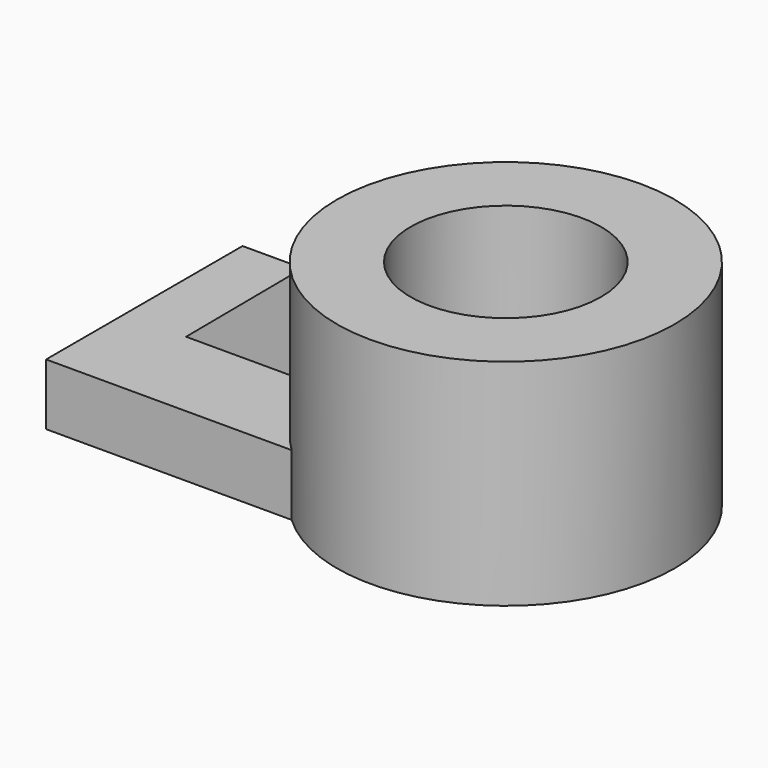
from build123d import *

# Parameters (mm, degrees)
F0_R     = 39.37
F1_DEPTH = 88.9
F2_DEPTH = 25.4
F5_DEPTH = 20.32
F5_TAPER = -0.1


with BuildPart() as f1:
    # F0 (on Top) → F1 (new body)
    with BuildSketch(Plane.XY):
        with BuildLine():
            ThreePointArc((168.591448664, 0), (126.4029047972, 64.1394289388), (50.8, 50.8))
            ThreePointArc((50.8, 50.8), (28.891448664, 0), (50.8, -50.8))
            ThreePointArc((50.8, -50.8), (126.4029047972, -64.1394289388), (168.591448664, 0))
        make_face()
        with Locations((98.741448664, 0)):
            Circle(F0_R, mode=Mode.SUBTRACT)
    extrude(amount=F1_DEPTH)

    # F0 (on Top) → F2 (join)
    with BuildSketch(Plane.XY):
        with BuildLine():
            Line((50.8, 50.8), (-50.8, 50.8))
            Line((-50.8, 50.8), (-50.8, -50.8))
            Line((-50.8, -50.8), (50.8, -50.8))
            ThreePointArc((50.8, -50.8), (28.891448664, 0), (50.8, 50.8))
        make_face()
    extrude(amount=F2_DEPTH)

    # F4 (on offset) → F5 (join)
    with BuildSketch(Plane.XZ.offset(10.16)):
        Polygon((28.891448664, 25.4), (28.891448664, 71.12), (-25.4, 25.4), align=None)
    extrude(amount=-F5_DEPTH, taper=F5_TAPER)


solid = f1.part
